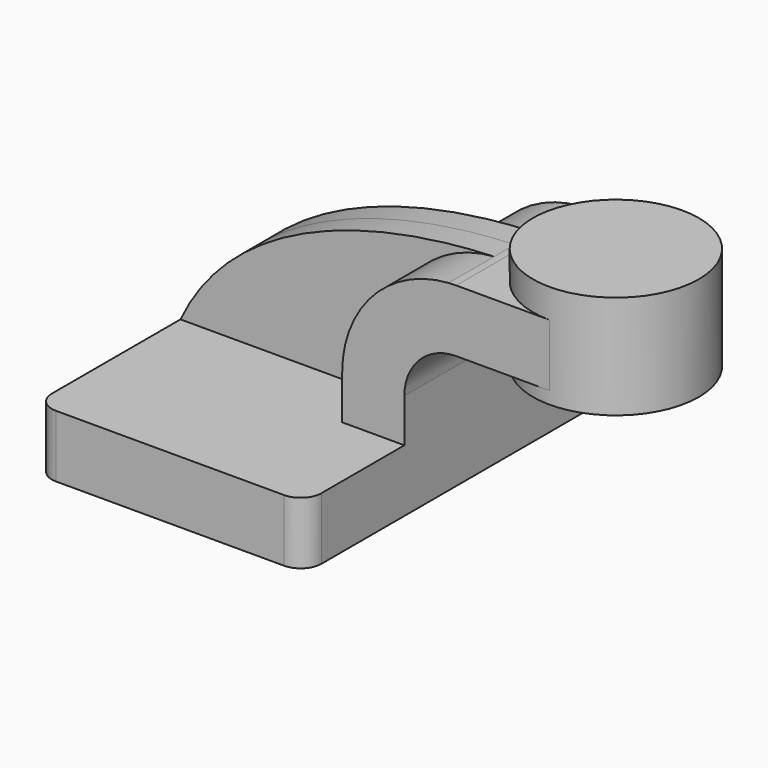
from build123d import *

# Parameters (mm, degrees)
F1_DEPTH = 63.5
F0_W     = 25.4
F0_H     = 19.0500000358
F2_DEPTH = 25.4
F4_DEPTH = 7.9375
F5_R     = 6.35


with BuildPart() as f1:
    # F0 (on Front) → F1 (new body, symmetric)
    with BuildSketch(Plane.XZ):
        Polygon((22.2249999642, 9.525), (-41.275, 9.525), (-41.275, -9.525), (41.275, -9.525), (41.275, 9.525), align=None)
    extrude(amount=F1_DEPTH, both=True)

    # F0 (on Front) → F2 (join, symmetric)
    with BuildSketch(Plane.XZ):
        with BuildLine():
            Line((22.2249999642, 22.8510349691), (22.2249999642, 9.525))
            Line((22.2249999642, 9.525), (41.275, 9.525))
            Line((41.275, 9.525), (41.275, 22.8510349691))
            ThreePointArc((41.275, 22.8510349691), (45.9246798487, 34.0763551205), (57.15, 38.7260349691))
            Line((57.15, 38.7260349691), (60.325, 38.7260349691))
            Line((60.325, 38.7260349691), (60.325, 57.7760350049))
            Line((60.325, 57.7760350049), (57.15, 57.7760350049))
            add(Edge.make_bspline(
                [(54.8082230388, 57.6974366221), (55.5907182934, 57.7282388811), (56.3713995227, 57.7544053824), (57.15, 57.7760350049)],
                knots=[107.3950550145, 107.3950550145, 107.3950550145, 107.3950550145, 109.6158884653, 109.6158884653, 109.6158884653, 109.6158884653], degree=3))
            ThreePointArc((54.8082230388, 57.6974366221), (31.6397845173, 46.7044316564), (22.2249999642, 22.8510349691))
        make_face()
        with Locations((73.025, 48.251034987)):
            Rectangle(F0_W, F0_H)
    extrude(amount=F2_DEPTH, both=True)

    # F0 (on Front) → F3 (revolve)
    with BuildSketch(Plane.XZ):
        Polygon((85.725, 66.675), (85.725, 57.7760350049), (85.725, 38.7260349691), (85.725, 34.925), (111.125, 34.925), (111.125, 66.675), align=None)
    revolve(axis=Axis((85.725, 0, 50.8), (0, 0, -1)))

    # F0 (on Front) → F4 (join, symmetric)
    with BuildSketch(Plane.XZ):
        with BuildLine():
            add(Edge.make_bspline(
                [(-41.275, 9.525), (-25.1136724024, 43.8776656842), (16.9683206865, 56.2079011061), (54.8082230388, 57.6974366221)],
                knots=[0, 0, 0, 0, 107.3950550145, 107.3950550145, 107.3950550145, 107.3950550145], degree=3))
            Line((-41.275, 9.525), (22.2249999642, 9.525))
            Line((22.2249999642, 9.525), (22.2249999642, 22.8510349691))
            ThreePointArc((22.2249999642, 22.8510349691), (31.6397845173, 46.7044316564), (54.8082230388, 57.6974366221))
        make_face()
    extrude(amount=F4_DEPTH, both=True)

    # F5
    f5_edges = [f1.edges().sort_by_distance(p)[0] for p in [
        (41.275, 63.5, 0),
        (-41.275, 63.5, 0),
        (41.275, -63.5, 0),
        (-41.275, -63.5, 0),
    ]]
    fillet(f5_edges, radius=F5_R)


solid = f1.part
